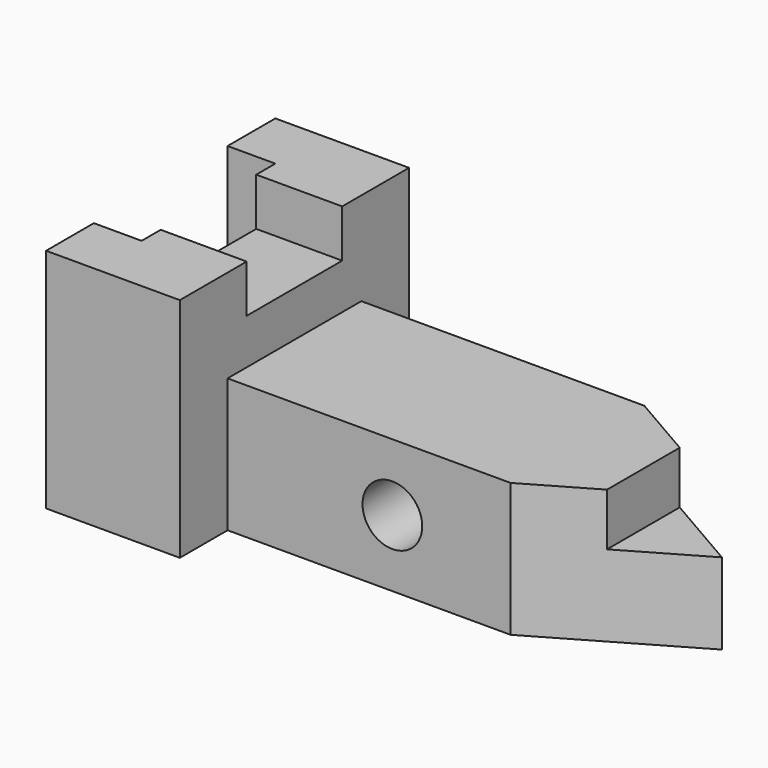
from build123d import *

# Parameters (mm, degrees)
F1_DEPTH = 48.26
F3_DEPTH = 18.288
F5_DEPTH = 28.448
F7_DEPTH = 11.176
F8_R     = 6.35
F9_DEPTH = 35.56


with BuildPart() as f1:
    # F0 (on Top) → F1 (new body)
    with BuildSketch(Plane.XY):
        Polygon((-28.448, 0), (0, 0), (0, 30.48), (0, 60.96), (-28.448, 60.96), (-28.448, 48.26), (-18.288, 48.26), (-18.288, 30.48), (-18.288, 17.78), (-18.288, 12.7), (-28.448, 12.7), align=None)
    extrude(amount=F1_DEPTH)

    # F2 (on face) → F3 (cut, through all)
    with BuildSketch(Plane.YZ):
        Polygon((17.78, 38.1), (30.48, 38.1), (43.18, 38.1), (43.18, 48.26), (17.78, 48.26), align=None)
    extrude(amount=-F3_DEPTH, mode=Mode.SUBTRACT)

    # F4 (on Top) → F5 (join)
    with BuildSketch(Plane.XY):
        Polygon((0, 30.48), (0, 12.7), (60.198, 12.7), (90.932, 30.48), (60.198, 48.26), (0, 48.26), align=None)
    extrude(amount=F5_DEPTH)

    # F6 (on face) → F7 (cut)
    with BuildSketch(Plane.XY.offset(28.448)):
        Polygon((74.22266, 20.81344), (90.932, 30.48), (74.22266, 40.14656), align=None)
    extrude(amount=-F7_DEPTH, mode=Mode.SUBTRACT)

    # F8 (on face) → F9 (cut, through all)
    with BuildSketch(Plane.XZ.offset(-12.7)):
        with Locations((35.052, 14.224)):
            Circle(F8_R)
    extrude(amount=-F9_DEPTH, mode=Mode.SUBTRACT)


solid = f1.part
